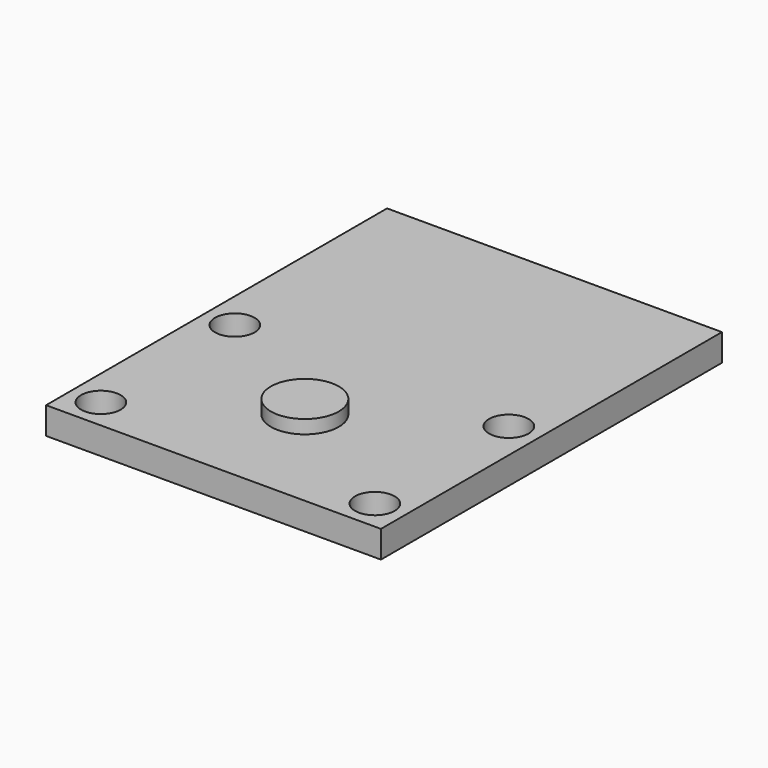
from build123d import *

# Parameters (mm, degrees)
F0_W     = 22
F0_H     = 28
F0_R     = 1.3
F1_DEPTH = 1.778
F2_R     = 2.231507
F3_DEPTH = 0.889


with BuildPart() as f1:
    # F0 (on Top) → F1 (new body)
    with BuildSketch(Plane.XY):
        with Locations((0, 6.5)):
            Rectangle(F0_W, F0_H)
        with Locations((-9, -5.5)):
            Circle(F0_R, mode=Mode.SUBTRACT)
        with Locations((-9, 5.5)):
            Circle(F0_R, mode=Mode.SUBTRACT)
        with Locations((9, -5.5)):
            Circle(F0_R, mode=Mode.SUBTRACT)
        with Locations((9, 5.5)):
            Circle(F0_R, mode=Mode.SUBTRACT)
    extrude(amount=F1_DEPTH)

    # F2 (on face) → F3 (join)
    with BuildSketch(Plane.XY.offset(1.778)):
        Circle(F2_R)
    extrude(amount=F3_DEPTH)


solid = f1.part
